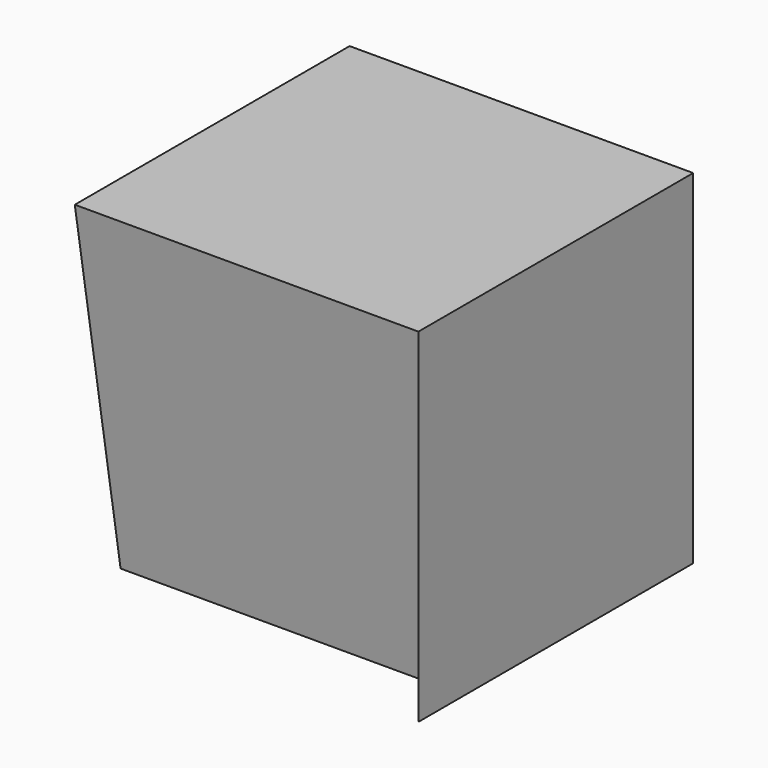
from build123d import *

# Parameters (mm, degrees)
F0_W     = 38.1112731993
F0_H     = 38.1112731993
F1_DEPTH = 38.1
F4_DEPTH = 38.1


with BuildPart() as f1:
    # F0 (on Front) → F1 (new body)
    with BuildSketch(Plane.XZ):
        with Locations((19.0556365997, 19.0556365997)):
            Rectangle(F0_W, F0_H)
    extrude(amount=F1_DEPTH)

    # F3 (on offset) → F4 (cut)
    with BuildSketch(Plane.YZ.offset(38.1)):
        Polygon((-6.35, 0), (0, 0), (0, 38.1), align=None)
        Polygon((-11.43, 17.1249471605), (-6.35, 38.1), (-31.75, 38.1), (-26.67, 15.875), (-21.59, 28.575), (-16.51, 28.575), align=None)
        Polygon((-31.75, 0), (-38.1, 38.1), (-38.1, 0), align=None)
        Polygon((-25.4, 0), (-12.9839282118, 0), (-19.05, 15.875), align=None)
    extrude(amount=-F4_DEPTH, mode=Mode.SUBTRACT)


solid = f1.part
